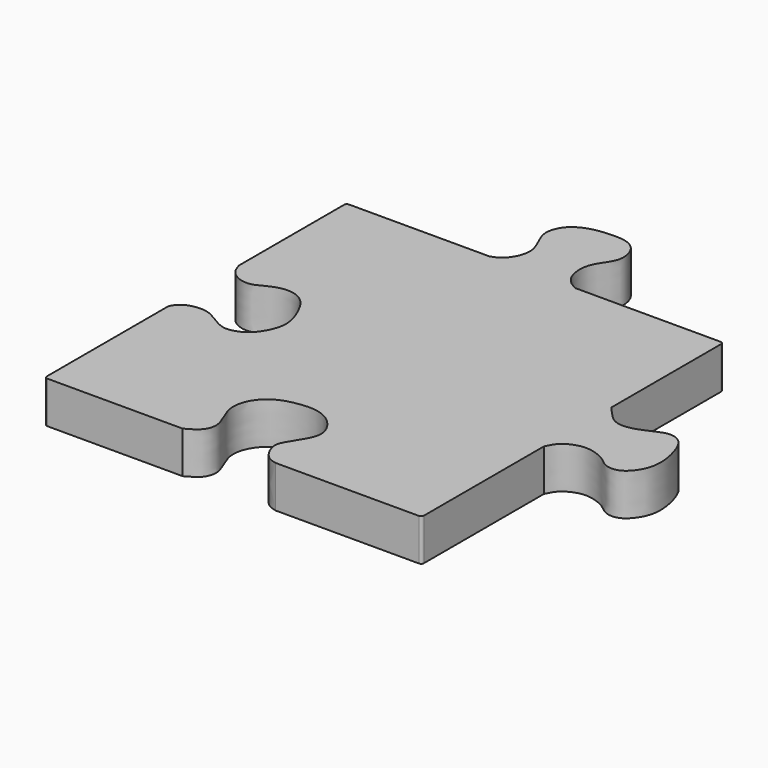
from build123d import *

# Parameters (mm, degrees)
F1_DEPTH = 3


with BuildPart() as f1:
    # F0 (on Top) → F1 (new body)
    with BuildSketch(Plane.XY):
        with BuildLine():
            ThreePointArc((13.5, 13.3), (13.4414213562, 13.4414213562), (13.3, 13.5))
            Line((13.3, 13.5), (2.9256343842, 13.5))
            add(Edge.make_bspline(
                [(-3.2644683961, 13.5), (-3.0662583303, 13.5643722856), (-2.6324860948, 13.7053217975), (-2.0214898286, 14.4480430011), (-1.7029504095, 15.6378141853), (-2.454635947, 16.9749947252), (-2.6825620876, 17.8930480594), (-2.1998393302, 19.0529371989), (-0.9709012497, 19.6970512849), (0.4131217639, 19.8229181104), (1.5597323958, 19.7999856425), (2.4988822823, 19.222611148), (2.8712958256, 17.718413716), (1.9496781128, 16.6394424874), (1.5727900913, 15.5819611572), (1.8173841083, 14.3308485023), (2.4312427486, 13.7230605422), (2.7733910569, 13.5686859722), (2.9256343842, 13.5)],
                knots=[0, 0, 0, 0, 0.0481047731, 0.1056924007, 0.1709548073, 0.2442148218, 0.3021872049, 0.3662608804, 0.4359798529, 0.5072745935, 0.5710463572, 0.6315977165, 0.7019558313, 0.771862489, 0.8353126276, 0.901689261, 0.9564252703, 1, 1, 1, 1], degree=3))
            Line((-3.2644683961, 13.5), (-13.3, 13.5))
            ThreePointArc((-13.3, 13.5), (-13.4414213562, 13.4414213562), (-13.5, 13.3))
            Line((-13.5, 13.3), (-13.5, 3.886803519))
            add(Edge.make_bspline(
                [(-13.5, -2.3968466558), (-13.3789784649, -2.1972202768), (-13.1189306765, -1.7682685345), (-12.1722390274, -1.4750552096), (-11.1956038033, -1.5511248412), (-10.1902186005, -2.246052558), (-9.3152066502, -2.6608872228), (-8.1504660707, -2.2827425138), (-7.4632869083, -1.5293052696), (-6.8364784933, -0.147193507), (-7.3090602774, 1.4330470181), (-8.091505777, 2.8423030328), (-9.2731709944, 3.3740848305), (-10.5594727406, 3.0694529115), (-11.4622628933, 2.4499575795), (-12.4493716192, 2.5306165867), (-13.2571252505, 3.107323326), (-13.4212532671, 3.634074412), (-13.5, 3.886803519)],
                knots=[0, 0, 0, 0, 0.0501986144, 0.1078654194, 0.1667847244, 0.2323702335, 0.2904695912, 0.3535768836, 0.4139284941, 0.4852739012, 0.5615072568, 0.636719476, 0.7019421789, 0.7693263861, 0.8313722384, 0.8888097761, 0.9466522106, 1, 1, 1, 1], degree=3))
            Line((-13.5, -2.3968466558), (-13.5, -13.3))
            ThreePointArc((-13.5, -13.3), (-13.4414213562, -13.4414213562), (-13.3, -13.5))
            Line((-13.3, -13.5), (-3.6205472425, -13.5))
            add(Edge.make_bspline(
                [(-3.6205472425, -13.5), (-3.2975146167, -13.3258239693), (-2.6561943668, -12.994260843), (-2.2797365706, -12.0362531682), (-2.6578044293, -11.0626950095), (-3.1430128025, -10.0317229999), (-3.0304591906, -8.7301835607), (-2.0610902167, -7.5287321485), (-0.5931512777, -7.0922658891), (0.7755230635, -6.9995996909), (2.0332139986, -7.4886393868), (2.9495725667, -8.7767418293), (2.7562709245, -9.8263251423), (2.1275097556, -10.7835574391), (1.6099847402, -11.6210528717), (1.7115193902, -12.3263292222), (2.1167993477, -13.0460856488), (2.5722790527, -13.3858216671), (2.8895502877, -13.4629446149), (3.0419901013, -13.5)],
                knots=[0, 0, 0, 0, 0.0598129427, 0.1150215718, 0.1729612819, 0.2344470247, 0.2986083576, 0.3683691077, 0.4391703068, 0.5062567297, 0.572389053, 0.6421498026, 0.6995784886, 0.7617467532, 0.8180597561, 0.8653647906, 0.9173638322, 0.9603519319, 1, 1, 1, 1], degree=3))
            Line((3.0419901013, -13.5), (13.3, -13.5))
            ThreePointArc((13.3, -13.5), (13.4414213562, -13.4414213562), (13.5, -13.3))
            Line((13.5, -13.3), (13.5, -2.5709099136))
            add(Edge.make_bspline(
                [(13.5, -2.5709099136), (13.628463163, -2.3003713866), (13.8893131094, -1.7501329843), (14.7957852883, -1.2812195392), (15.6889943276, -1.1620222136), (16.9352909856, -1.5861694209), (17.5615004743, -2.2759073552), (18.520788497, -2.3386956084), (19.2823857543, -1.7703899461), (20.0555746909, -0.3626453228), (19.5111131919, 1.9452509021), (18.9057292582, 2.8037158942), (18.01795778, 3.1031513991), (16.9012433501, 2.566791203), (16.0130080676, 2.1773441781), (14.7950629009, 2.0659181879), (13.9700433975, 2.9207915143), (13.6459783293, 3.3132113609), (13.5, 3.4899804741)],
                knots=[0, 0, 0, 0, 0.0569853971, 0.1160754763, 0.173505082, 0.2414931948, 0.2993797012, 0.3547467615, 0.4114603288, 0.4863186761, 0.5781339361, 0.6388197812, 0.6933614125, 0.7592335366, 0.8201013787, 0.8841441218, 0.948079445, 1, 1, 1, 1], degree=3))
            Line((13.5, 3.4899804741), (13.5, 13.3))
        make_face()
    extrude(amount=F1_DEPTH)


solid = f1.part
